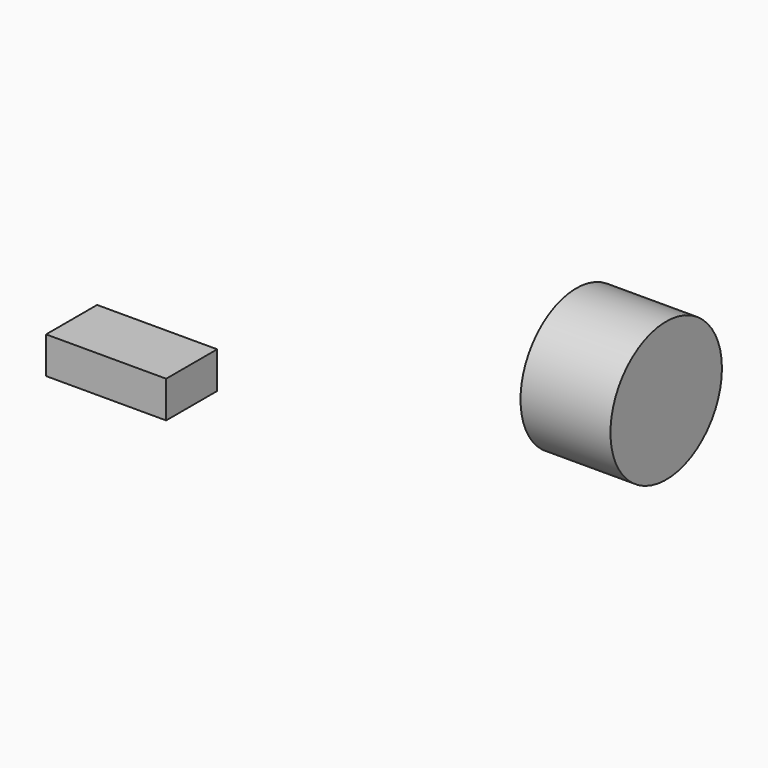
from build123d import *

# Parameters (mm, degrees)
F0_W     = 24.078999
F0_H     = 12.788326
F1_DEPTH = 7.366
F2_R     = 13.968707
F3_DEPTH = 18.034


with BuildPart() as f1:
    # F0 (on Top) → F1 (new body)
    with BuildSketch(Plane.XY):
        with Locations((-50.930341, -47.780879)):
            Rectangle(F0_W, F0_H)
    extrude(amount=F1_DEPTH)


with BuildPart() as f3:
    # F2 (on Right) → F3 (new body)
    with BuildSketch(Plane.YZ):
        Circle(F2_R)
    extrude(amount=F3_DEPTH)


solid = Compound([f1.part, f3.part])
